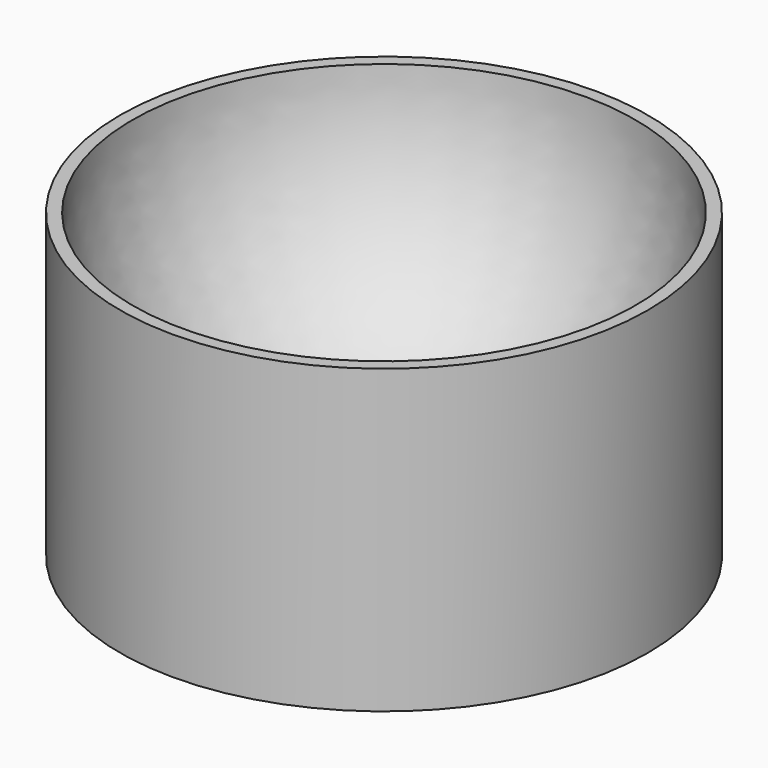
from build123d import *


with BuildPart() as f1:
    # F0 (on Right) → F1 (revolve)
    with BuildSketch(Plane.YZ):
        with BuildLine():
            Line((0, 1), (0, 0))
            Line((0, 0), (5.25, 0))
            Line((5.25, 0), (5.25, 6))
            Line((5.25, 6), (5, 6))
            ThreePointArc((5, 6), (3.535534, 2.464466), (0, 1))
        make_face()
    revolve(axis=Axis((0, 0, 0.5), (0, 0, 1)))


solid = f1.part
